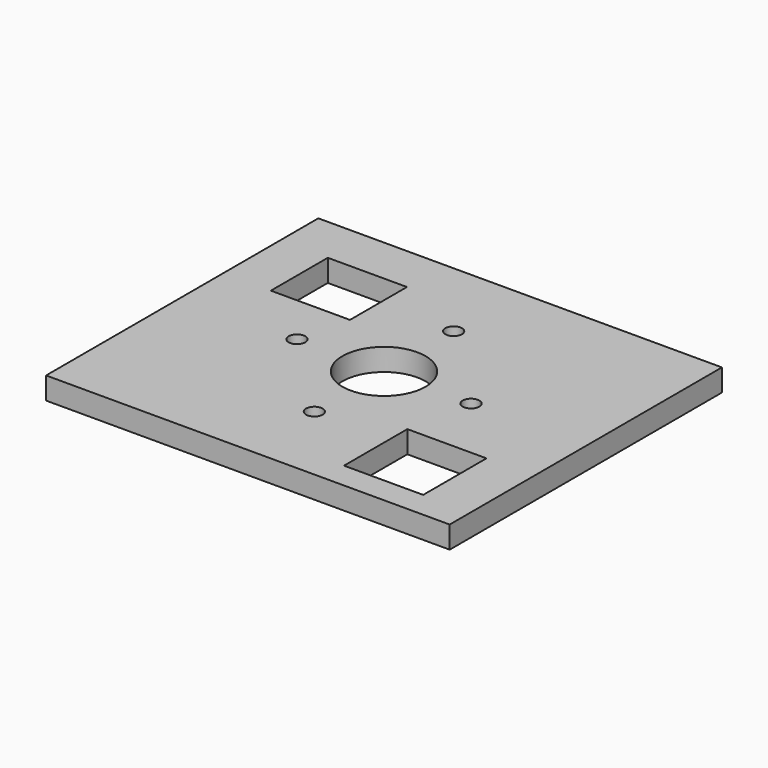
from build123d import *

# Parameters (mm, degrees)
F0_W     = 51
F0_H     = 43
F0_R     = 1.05
F0_W_2   = 10
F0_H_2   = 10
F0_R_2   = 5.25
F0_H_3   = 9
F1_DEPTH = 2.8


with BuildPart() as f1:
    # F0 (on Top) → F1 (new body)
    with BuildSketch(Plane.XY):
        with Locations((-36.876488, 29.491607)):
            Rectangle(F0_W, F0_H)
        with Locations((-47.876488, 29.491607)):
            Circle(F0_R, mode=Mode.SUBTRACT)
        with Locations((-36.876488, 18.491607)):
            Circle(F0_R, mode=Mode.SUBTRACT)
        with Locations((-22.376488, 16.304032)):
            Rectangle(F0_W_2, F0_H_2, mode=Mode.SUBTRACT)
        with Locations((-36.876488, 29.491607)):
            Circle(F0_R_2, mode=Mode.SUBTRACT)
        with Locations((-25.876488, 29.491607)):
            Circle(F0_R, mode=Mode.SUBTRACT)
        with Locations((-51.376488, 40.491607)):
            Rectangle(F0_W_2, F0_H_3, mode=Mode.SUBTRACT)
        with Locations((-36.876488, 40.491607)):
            Circle(F0_R, mode=Mode.SUBTRACT)
    extrude(amount=F1_DEPTH)


solid = f1.part
